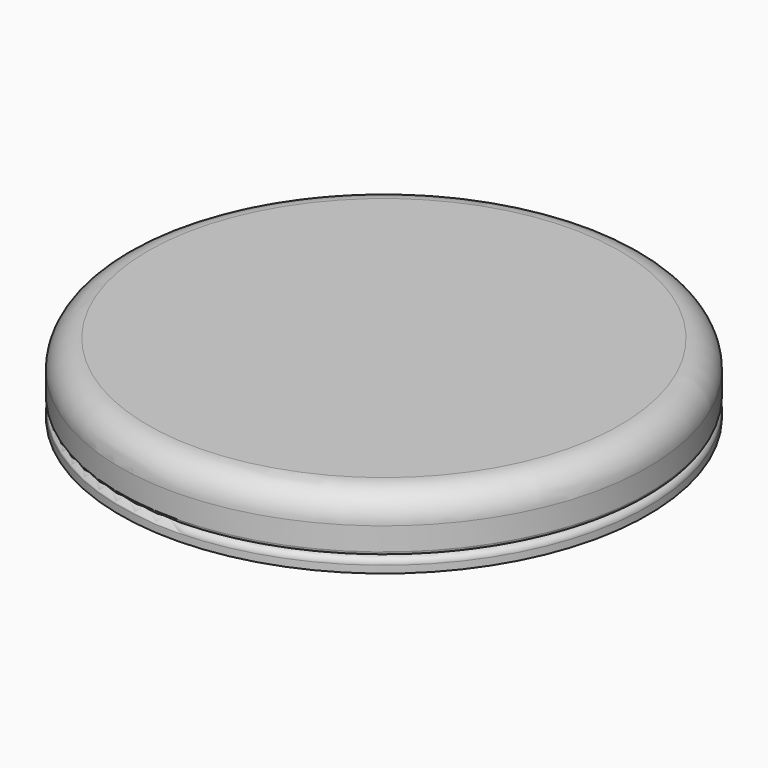
from build123d import *


with BuildPart() as f1:
    # F0 (on Front) → F1 (revolve)
    with BuildSketch(Plane.XZ):
        with BuildLine():
            Line((-2.675, 0.65), (0, 0.65))
            Line((0, 0.65), (0, 1))
            Line((0, 1), (-3.375, 1))
            ThreePointArc((-3.375, 1), (-3.657843, 0.882843), (-3.775, 0.6))
            Line((-3.775, 0.6), (-3.775, 0.273242))
            ThreePointArc((-3.775, 0.273242), (-3.760355, 0.237886), (-3.725, 0.223242))
            Line((-3.725, 0.223242), (-3.54468, 0.223242))
            ThreePointArc((-3.54468, 0.223242), (-3.509324, 0.237886), (-3.49468, 0.273242))
            Line((-3.49468, 0.273242), (-3.49468, 0.365176))
            ThreePointArc((-3.49468, 0.365176), (-3.497226, 0.380928), (-3.504604, 0.395076))
            Line((-3.504604, 0.395076), (-3.548599, 0.454043))
            ThreePointArc((-3.548599, 0.454043), (-3.555978, 0.468191), (-3.558524, 0.483943))
            Line((-3.558524, 0.483943), (-3.558524, 0.533437))
            ThreePointArc((-3.558524, 0.533437), (-3.556821, 0.546376), (-3.551828, 0.558432))
            Line((-3.551828, 0.558432), (-3.426828, 0.774995))
            ThreePointArc((-3.426828, 0.774995), (-3.408526, 0.7933), (-3.383524, 0.8))
            Line((-3.383524, 0.8), (-3.283524, 0.8))
            Line((-3.283524, 0.8), (-3.183524, 0.8))
            ThreePointArc((-3.183524, 0.8), (-3.158521, 0.7933), (-3.14022, 0.774995))
            Line((-3.14022, 0.774995), (-3.01522, 0.558432))
            ThreePointArc((-3.01522, 0.558432), (-3.010227, 0.546376), (-3.008524, 0.533437))
            Line((-3.008524, 0.533437), (-3.008524, 0.483943))
            ThreePointArc((-3.008524, 0.483943), (-3.01107, 0.468191), (-3.018449, 0.454043))
            Line((-3.018449, 0.454043), (-3.062443, 0.395076))
            ThreePointArc((-3.062443, 0.395076), (-3.069822, 0.380928), (-3.072368, 0.365176))
            Line((-3.072368, 0.365176), (-3.072368, 0.273242))
            ThreePointArc((-3.072368, 0.273242), (-3.057724, 0.237886), (-3.022368, 0.223242))
            Line((-3.022368, 0.223242), (-2.925, 0.223242))
            ThreePointArc((-2.925, 0.223242), (-2.889645, 0.237886), (-2.875, 0.273242))
            Line((-2.875, 0.273242), (-2.875, 0.45))
            ThreePointArc((-2.875, 0.45), (-2.816421, 0.591421), (-2.675, 0.65))
        make_face()
        with BuildLine():
            Line((-3.086763, 0.223242), (-3.022368, 0.223242))
            ThreePointArc((-3.022368, 0.223242), (-3.057724, 0.237886), (-3.072368, 0.273242))
            Line((-3.072368, 0.273242), (-3.072368, 0.365176))
            ThreePointArc((-3.072368, 0.365176), (-3.069822, 0.380928), (-3.062443, 0.395076))
            Line((-3.062443, 0.395076), (-3.018449, 0.454043))
            ThreePointArc((-3.018449, 0.454043), (-3.01107, 0.468191), (-3.008524, 0.483943))
            Line((-3.008524, 0.483943), (-3.008524, 0.533437))
            ThreePointArc((-3.008524, 0.533437), (-3.010227, 0.546376), (-3.01522, 0.558432))
            Line((-3.01522, 0.558432), (-3.14022, 0.774995))
            ThreePointArc((-3.14022, 0.774995), (-3.158521, 0.7933), (-3.183524, 0.8))
            Line((-3.183524, 0.8), (-3.283524, 0.8))
            Line((-3.283524, 0.8), (-3.383524, 0.8))
            ThreePointArc((-3.383524, 0.8), (-3.408526, 0.7933), (-3.426828, 0.774995))
            Line((-3.426828, 0.774995), (-3.551828, 0.558432))
            ThreePointArc((-3.551828, 0.558432), (-3.556821, 0.546376), (-3.558524, 0.533437))
            Line((-3.558524, 0.533437), (-3.558524, 0.483943))
            ThreePointArc((-3.558524, 0.483943), (-3.555978, 0.468191), (-3.548599, 0.454043))
            Line((-3.548599, 0.454043), (-3.504604, 0.395076))
            ThreePointArc((-3.504604, 0.395076), (-3.497226, 0.380928), (-3.49468, 0.365176))
            Line((-3.49468, 0.365176), (-3.49468, 0.273242))
            ThreePointArc((-3.49468, 0.273242), (-3.509324, 0.237886), (-3.54468, 0.223242))
            Line((-3.54468, 0.223242), (-3.480285, 0.223242))
            ThreePointArc((-3.480285, 0.223242), (-3.472405, 0.237749), (-3.46968, 0.254032))
            Line((-3.46968, 0.254032), (-3.46968, 0.365176))
            ThreePointArc((-3.46968, 0.365176), (-3.473499, 0.388804), (-3.484567, 0.410026))
            Line((-3.484567, 0.410026), (-3.528561, 0.468993))
            ThreePointArc((-3.528561, 0.468993), (-3.532251, 0.476067), (-3.533524, 0.483943))
            Line((-3.533524, 0.483943), (-3.533524, 0.533437))
            ThreePointArc((-3.533524, 0.533437), (-3.532672, 0.539906), (-3.530176, 0.545935))
            Line((-3.530176, 0.545935), (-3.405176, 0.762498))
            ThreePointArc((-3.405176, 0.762498), (-3.396025, 0.77165), (-3.383524, 0.775))
            Line((-3.383524, 0.775), (-3.308524, 0.775))
            Line((-3.308524, 0.775), (-3.183524, 0.775))
            ThreePointArc((-3.183524, 0.775), (-3.171023, 0.77165), (-3.161872, 0.762498))
            Line((-3.161872, 0.762498), (-3.036872, 0.545935))
            ThreePointArc((-3.036872, 0.545935), (-3.034375, 0.539906), (-3.033524, 0.533437))
            Line((-3.033524, 0.533437), (-3.033524, 0.483943))
            ThreePointArc((-3.033524, 0.483943), (-3.034797, 0.476067), (-3.038486, 0.468993))
            Line((-3.038486, 0.468993), (-3.082481, 0.410026))
            ThreePointArc((-3.082481, 0.410026), (-3.093549, 0.388804), (-3.097368, 0.365176))
            Line((-3.097368, 0.365176), (-3.097368, 0.254032))
            ThreePointArc((-3.097368, 0.254032), (-3.094643, 0.237749), (-3.086763, 0.223242))
        make_face()
        with BuildLine():
            Line((-3.480285, 0.223242), (-3.086763, 0.223242))
            ThreePointArc((-3.086763, 0.223242), (-3.094643, 0.237749), (-3.097368, 0.254032))
            Line((-3.097368, 0.254032), (-3.097368, 0.365176))
            ThreePointArc((-3.097368, 0.365176), (-3.093549, 0.388804), (-3.082481, 0.410026))
            Line((-3.082481, 0.410026), (-3.038486, 0.468993))
            ThreePointArc((-3.038486, 0.468993), (-3.034797, 0.476067), (-3.033524, 0.483943))
            Line((-3.033524, 0.483943), (-3.033524, 0.533437))
            ThreePointArc((-3.033524, 0.533437), (-3.034375, 0.539906), (-3.036872, 0.545935))
            Line((-3.036872, 0.545935), (-3.161872, 0.762498))
            ThreePointArc((-3.161872, 0.762498), (-3.171023, 0.77165), (-3.183524, 0.775))
            Line((-3.183524, 0.775), (-3.308524, 0.775))
            Line((-3.308524, 0.775), (-3.383524, 0.775))
            ThreePointArc((-3.383524, 0.775), (-3.396025, 0.77165), (-3.405176, 0.762498))
            Line((-3.405176, 0.762498), (-3.530176, 0.545935))
            ThreePointArc((-3.530176, 0.545935), (-3.532672, 0.539906), (-3.533524, 0.533437))
            Line((-3.533524, 0.533437), (-3.533524, 0.483943))
            ThreePointArc((-3.533524, 0.483943), (-3.532251, 0.476067), (-3.528561, 0.468993))
            Line((-3.528561, 0.468993), (-3.484567, 0.410026))
            ThreePointArc((-3.484567, 0.410026), (-3.473499, 0.388804), (-3.46968, 0.365176))
            Line((-3.46968, 0.365176), (-3.46968, 0.254032))
            ThreePointArc((-3.46968, 0.254032), (-3.472405, 0.237749), (-3.480285, 0.223242))
        make_face()
        with BuildLine():
            Line((-2.975, 0.204032), (-3.047368, 0.204032))
            Line((-3.047368, 0.204032), (-3.097368, 0.204032))
            Line((-3.097368, 0.204032), (-3.46968, 0.204032))
            Line((-3.46968, 0.204032), (-3.51968, 0.204032))
            Line((-3.51968, 0.204032), (-3.675, 0.204032))
            ThreePointArc((-3.675, 0.204032), (-3.745711, 0.174743), (-3.775, 0.104032))
            Line((-3.775, 0.104032), (-3.775, 0))
            Line((-3.775, 0), (-2.875, 0))
            Line((-2.875, 0), (-2.875, 0.104032))
            ThreePointArc((-2.875, 0.104032), (-2.904289, 0.174743), (-2.975, 0.204032))
        make_face()
    revolve(axis=Axis((0, 0, 0.5), (0, 0, 1)))


solid = f1.part
